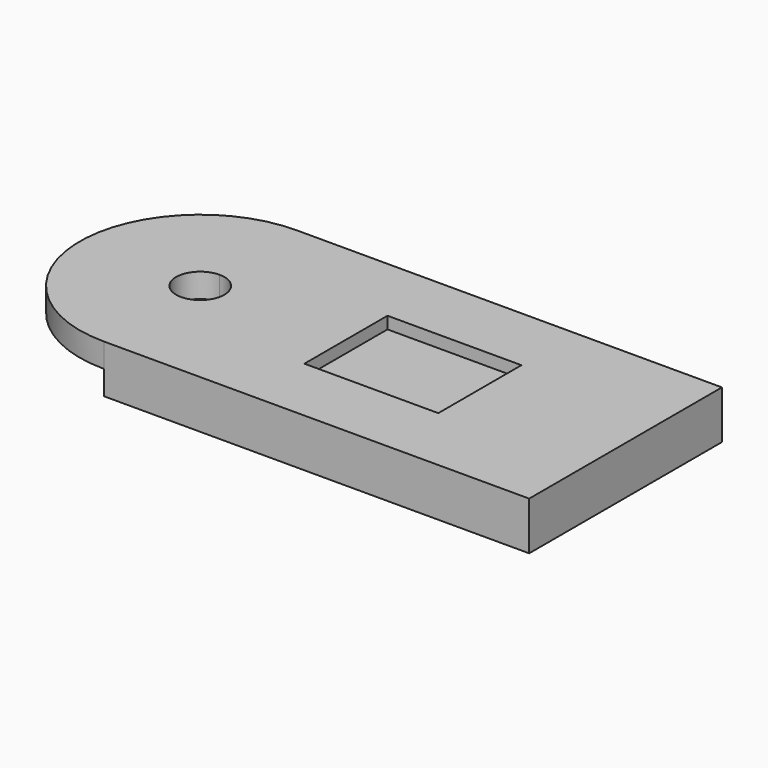
from build123d import *

# Parameters (mm, degrees)
F1_DEPTH = 20
F2_DEPTH = 10
F3_W     = 55.5881783366
F3_H     = 43.1093648076
F4_DEPTH = 5


with BuildPart() as f1:
    # F0 (on Top) → F1 (new body)
    with BuildSketch(Plane.XY):
        with BuildLine():
            ThreePointArc((-38.2674500346, 0), (-52.9121109753, 35.3553390593), (-88.2674500346, 50))
            Line((-88.2674500346, 50), (-88.2674500346, 10))
            ThreePointArc((-88.2674500346, 10), (-81.1963822228, 7.0710678119), (-78.2674500346, 0))
            ThreePointArc((-78.2674500346, 0), (-81.1963822228, -7.0710678119), (-88.2674500346, -10))
            Line((-88.2674500346, -10), (-88.2674500346, -50))
            ThreePointArc((-88.2674500346, -50), (-52.9121109753, -35.3553390593), (-38.2674500346, 0))
        make_face()
        with BuildLine():
            Line((88.2674500346, 50), (-88.2674500346, 50))
            ThreePointArc((-88.2674500346, 50), (-52.9121109753, 35.3553390593), (-38.2674500346, 0))
            ThreePointArc((-38.2674500346, 0), (-52.9121109753, -35.3553390593), (-88.2674500346, -50))
            Line((-88.2674500346, -50), (88.2674500346, -50))
            Line((88.2674500346, -50), (88.2674500346, 50))
        make_face()
        with BuildLine():
            Line((-88.2674500346, 10), (-88.2674500346, 50))
            ThreePointArc((-88.2674500346, 50), (-138.2674500346, 0), (-88.2674500346, -50))
            Line((-88.2674500346, -50), (-88.2674500346, -10))
            ThreePointArc((-88.2674500346, -10), (-98.2674500346, 0), (-88.2674500346, 10))
        make_face()
    extrude(amount=F1_DEPTH)

    # F0 (on Top) → F2 (cut)
    with BuildSketch(Plane.XY):
        with BuildLine():
            Line((-88.2674500346, 10), (-88.2674500346, 50))
            ThreePointArc((-88.2674500346, 50), (-138.2674500346, 0), (-88.2674500346, -50))
            Line((-88.2674500346, -50), (-88.2674500346, -10))
            ThreePointArc((-88.2674500346, -10), (-98.2674500346, 0), (-88.2674500346, 10))
        make_face()
    extrude(amount=F2_DEPTH, mode=Mode.SUBTRACT)

    # F3 (on face) → F4 (cut)
    with BuildSketch(Plane.XY.offset(20)):
        Rectangle(F3_W, F3_H)
    extrude(amount=-F4_DEPTH, mode=Mode.SUBTRACT)


solid = f1.part
